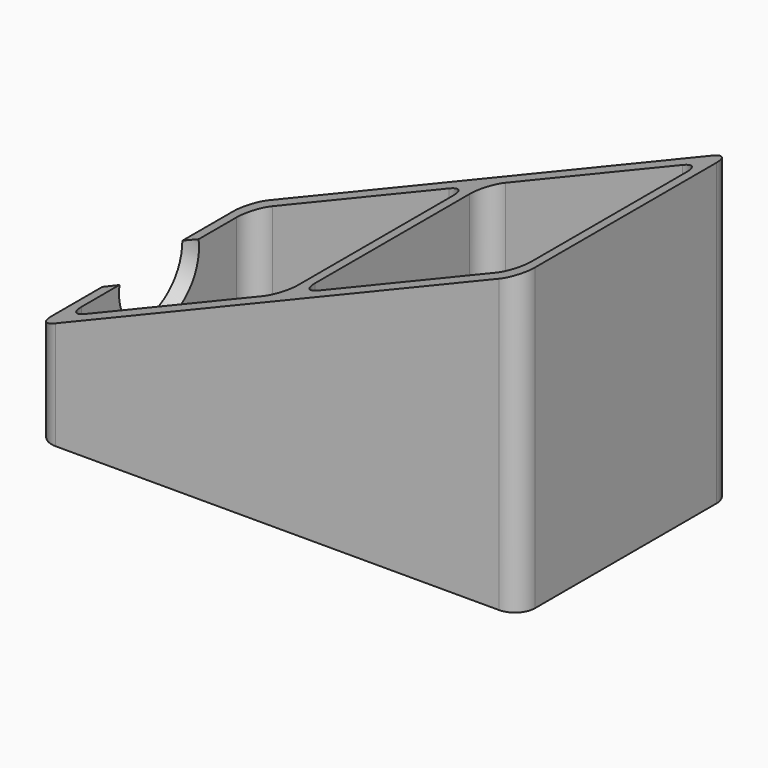
from build123d import *

# Parameters (mm, degrees)
F0_W     = 184.15
F0_H     = 101.6
F1_DEPTH = 114.3
F2_W     = 82.55
F2_H     = 88.9
F3_DEPTH = 107.95
F5_DEPTH = 101.601
F6_R     = 7.62
F7_R     = 19.05
F8_DEPTH = 25.4


with BuildPart() as f1:
    # F0 (on Top) → F1 (new body)
    with BuildSketch(Plane.XY):
        with Locations((-5.291667, -7.821875)):
            Rectangle(F0_W, F0_H)
    extrude(amount=F1_DEPTH)

    # F2 (on face) → F3 (cut)
    with BuildSketch(Plane.XY.offset(114.3)):
        with Locations((-49.741667, -7.821875)):
            Rectangle(F2_W, F2_H)
        with Locations((39.158333, -7.821875)):
            Rectangle(F2_W, F2_H)
    extrude(amount=-F3_DEPTH, mode=Mode.SUBTRACT)

    # F4 (on face) → F5 (cut, through all)
    with BuildSketch(Plane.XZ.offset(58.621875)):
        Polygon((-97.366667, 114.3), (-97.366667, 38.1), (86.783333, 114.3), align=None)
    extrude(amount=-F5_DEPTH, mode=Mode.SUBTRACT)

    # F6
    f6_edges = [f1.edges().sort_by_distance(p)[0] for p in [
        (80.433333, 36.628125, 59.011207),
        (-8.466667, 36.628125, 40.618103),
        (-97.366667, 42.978125, 19.05),
        (-97.366667, -58.621875, 19.05),
        (86.783333, -58.621875, 57.15),
        (80.433333, -52.271875, 59.011207),
        (-8.466667, -52.271875, 40.618103),
        (86.783333, 42.978125, 57.15),
        (-2.116667, -52.271875, 41.931897),
        (-91.016667, -52.271875, 23.538793),
        (-2.116667, 36.628125, 41.931897),
        (-91.016667, 36.628125, 23.538793),
    ]]
    fillet(f6_edges, radius=F6_R)

    # F7 (on face) → F8 (cut)
    with BuildSketch(Plane(origin=(-97.366667, 0, 0), x_dir=(0, -1, 0), z_dir=(-1, 0, 0))):
        with Locations((7.821875, 38.1)):
            Circle(F7_R)
    extrude(amount=-F8_DEPTH, mode=Mode.SUBTRACT)


solid = f1.part
